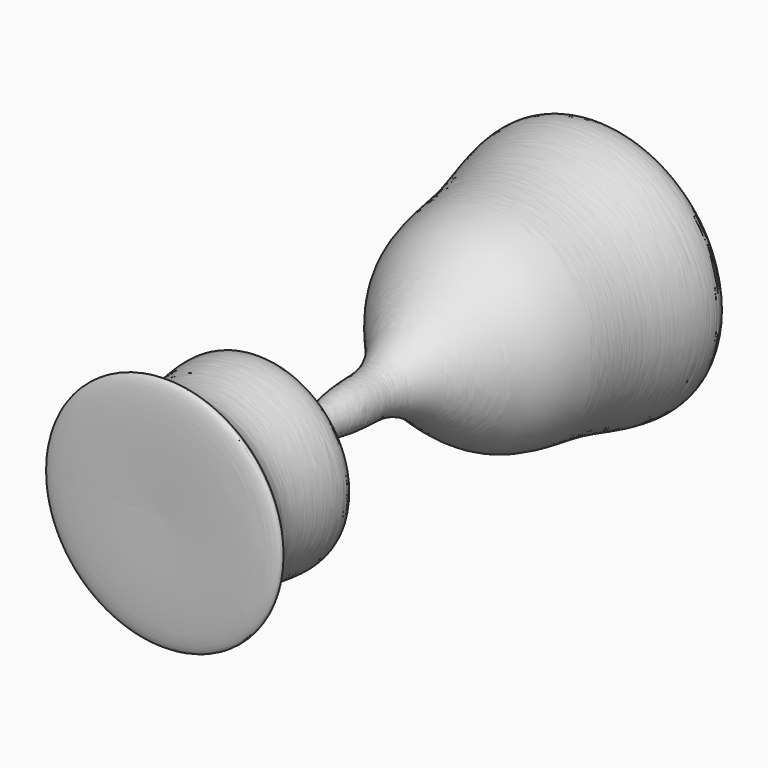
from build123d import *


with BuildPart() as f1:
    # F0 (on Top) → F1 (revolve)
    with BuildSketch(Plane.XY):
        with BuildLine():
            Line((0, 0), (0, 28.2478052992))
            add(Edge.make_bspline(
                [(0, 28.2478052992), (-4.0307338138, 27.8094774682), (-11.2323463289, 27.0263279734), (-22.4076984362, 27.7968569507), (-16.3941126955, 12.406013234), (-16.6017100401, -0.3207139369), (-5.5402042937, -10.329914044), (-3.4240836772, -16.2124372196), (-3.1477479788, -18.4935031316), (-3.1295848113, -23.64186159), (-1.3601373074, -30.2466637864), (-7.2375828913, -38.0693334176), (-17.2926928932, -37.4530726731), (-10.9042739511, -53.0676461255), (-23.3702930726, -58.7973008089), (-9.0293754818, -58.4155617267), (0, -58.1752099129)],
                knots=[0, 0, 0, 0, 0.0832635953, 0.1487650083, 0.2339228513, 0.322305713, 0.4120328627, 0.4693752466, 0.5045535285, 0.5575217506, 0.6196040117, 0.6901357956, 0.7520896713, 0.8378244111, 0.897890476, 1, 1, 1, 1], degree=3))
            Line((0, -58.1752099129), (0, 0))
        make_face()
    revolve(axis=Axis((0, -14.3529400229, 0), (0, -1, 0)))


solid = f1.part
